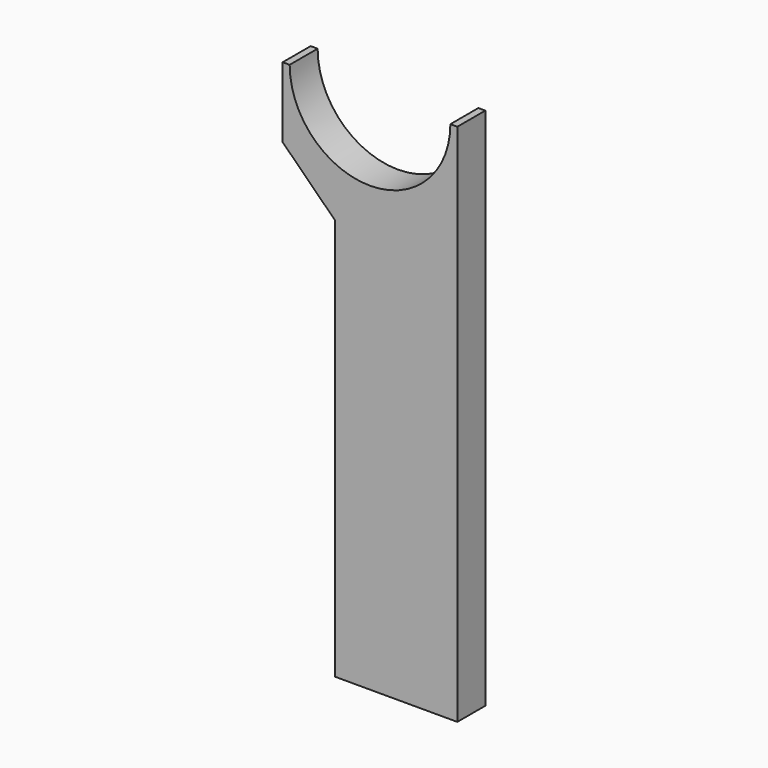
from build123d import *

# Parameters (mm, degrees)
F1_DEPTH = 12.7


with BuildPart() as f1:
    # F0 (on Front) → F1 (new body)
    with BuildSketch(Plane.XZ):
        with BuildLine():
            ThreePointArc((31.258046, 95.25), (2.048046, 66.04), (-27.161954, 95.25))
            Line((-27.161954, 95.25), (-29.701954, 95.25))
            Line((-29.701954, 95.25), (-29.701954, 69.635712))
            Line((-29.701954, 69.635712), (-10.651954, 50.8))
            Line((-10.651954, 50.8), (-10.651954, 0))
            Line((-10.651954, 0), (-10.651954, -95.25))
            Line((-10.651954, -95.25), (33.798046, -95.25))
            Line((33.798046, -95.25), (33.798046, 0))
            Line((33.798046, 0), (33.798046, 95.25))
            Line((33.798046, 95.25), (31.258046, 95.25))
        make_face()
    extrude(amount=F1_DEPTH)


solid = f1.part
